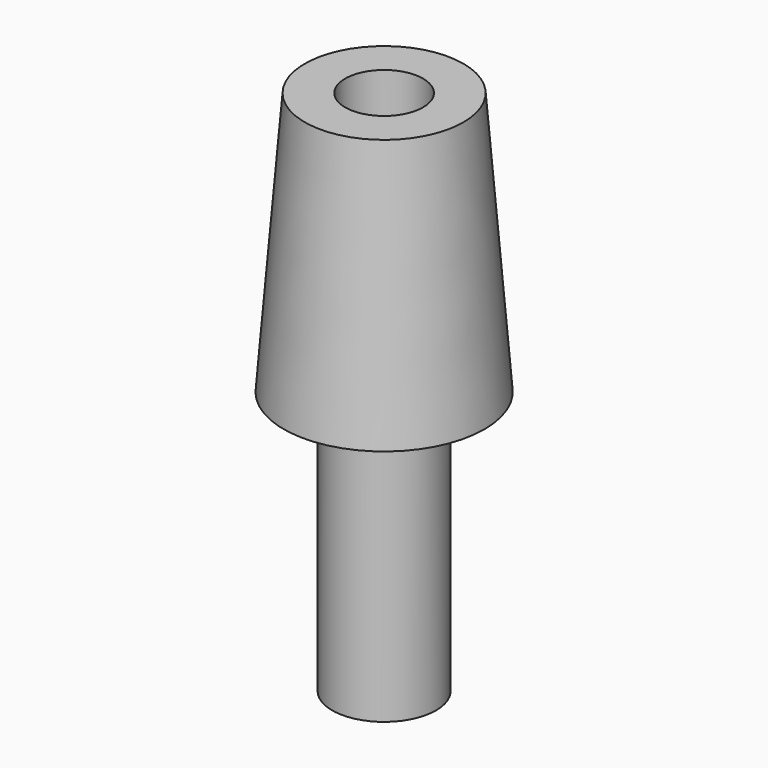
from build123d import *

# Parameters (mm, degrees)
F2_R      = 3
F1_FACE_R = 6.111111
F3_DEPTH  = 61


with BuildPart() as f1:
    # F0 (on Front) → F1 (revolve)
    with BuildSketch(Plane.XZ):
        Polygon((0, 40.573548), (0, 0), (4, 0), (4, 20.281405), (7.739263, 20.286774), (6.111111, 40.573548), align=None)
    revolve(axis=Axis((0, 0, 20.286774), (0, 0, 1)))

    # F2 (on Top) + F1_face (on face) → F3 (cut)
    with BuildSketch(Plane.XY):
        Circle(F2_R)
    with BuildSketch(Plane.XY.offset(40.573548)):
        Circle(F1_FACE_R)
    extrude(amount=F3_DEPTH, mode=Mode.SUBTRACT)


solid = f1.part
